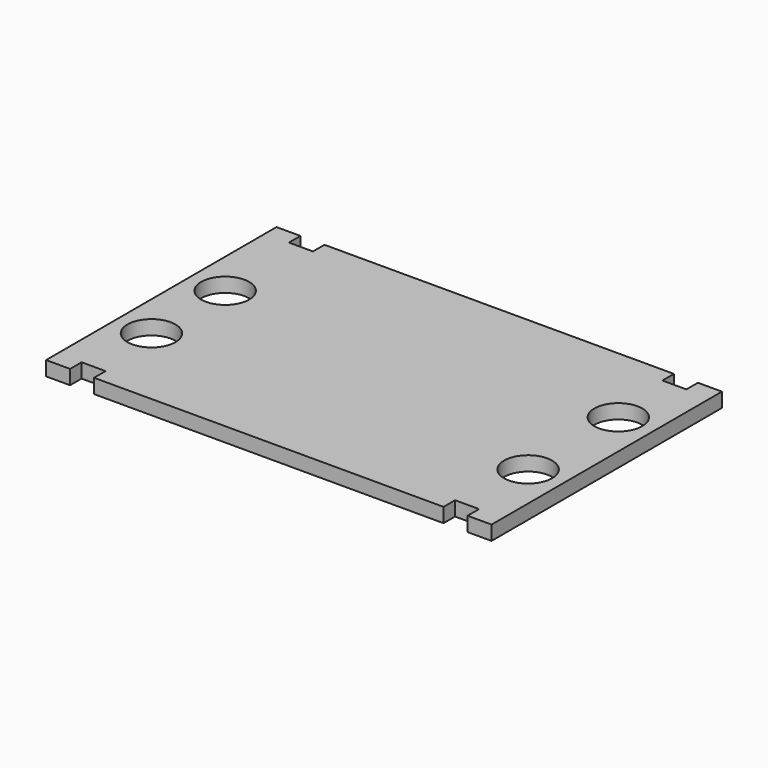
from build123d import *

# Parameters (mm, degrees)
F0_R     = 5
F1_DEPTH = 3


with BuildPart() as f1:
    # F0 (on Top) → F1 (new body)
    with BuildSketch(Plane.XY):
        Polygon((92.8, -60), (92.8, 0), (87.8, 0), (87.8, -3), (82.8, -3), (82.8, 0), (77.7, 0), (73.9, 0), (70.1, 0), (66.3, 0), (62.5, 0), (58.7, 0), (54.9, 0), (51.1, 0), (47.3, 0), (43.5, 0), (39.7, 0), (35.9, 0), (32.1, 0), (28.3, 0), (24.5, 0), (20.7, 0), (16.9, 0), (10, 0), (10, -3), (5, -3), (5, 0), (0, 0), (0, -60), (5, -60), (5, -57), (10, -57), (10, -60), (15, -60), (18.8, -60), (22.6, -60), (26.4, -60), (30.2, -60), (34, -60), (37.8, -60), (41.6, -60), (45.4, -60), (49.2, -60), (53, -60), (56.8, -60), (60.6, -60), (64.4, -60), (68.2, -60), (72, -60), (75.8, -60), (82.8, -60), (82.8, -57), (87.8, -57), (87.8, -60), align=None)
        with Locations((7.5, -41.929007)):
            Circle(F0_R, mode=Mode.SUBTRACT)
        with Locations((85.3, -41.101668)):
            Circle(F0_R, mode=Mode.SUBTRACT)
        with Locations((7.5, -22.734759)):
            Circle(F0_R, mode=Mode.SUBTRACT)
        with Locations((85.3, -17.605264)):
            Circle(F0_R, mode=Mode.SUBTRACT)
    extrude(amount=F1_DEPTH)


solid = f1.part
